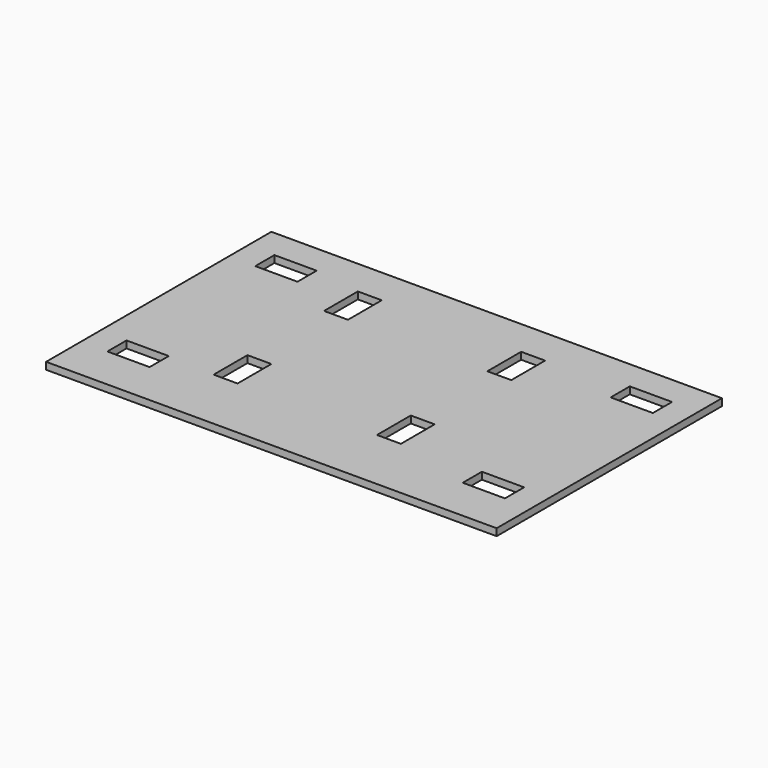
from build123d import *

# Parameters (mm, degrees)
F0_W     = 160
F0_H     = 100
F0_W_2   = 15
F0_H_2   = 8.5
F0_W_3   = 8.5
F0_H_3   = 15
F1_DEPTH = 2.5


with BuildPart() as f1:
    # F0 (on Top) → F1 (new body)
    with BuildSketch(Plane.XY):
        with Locations((-542.905006, -253.202301)):
            Rectangle(F0_W, F0_H)
        with Locations((-606.005006, -283.502301)):
            Rectangle(F0_W_2, F0_H_2, mode=Mode.SUBTRACT)
        with Locations((-577.555006, -272.702301)):
            Rectangle(F0_W_3, F0_H_3, mode=Mode.SUBTRACT)
        with Locations((-479.805006, -283.502301)):
            Rectangle(F0_W_2, F0_H_2, mode=Mode.SUBTRACT)
        with Locations((-519.555006, -272.702301)):
            Rectangle(F0_W_3, F0_H_3, mode=Mode.SUBTRACT)
        with Locations((-606.005006, -217.852301)):
            Rectangle(F0_W_2, F0_H_2, mode=Mode.SUBTRACT)
        with Locations((-577.555006, -223.702301)):
            Rectangle(F0_W_3, F0_H_3, mode=Mode.SUBTRACT)
        with Locations((-519.555006, -223.702301)):
            Rectangle(F0_W_3, F0_H_3, mode=Mode.SUBTRACT)
        with Locations((-479.805006, -217.852301)):
            Rectangle(F0_W_2, F0_H_2, mode=Mode.SUBTRACT)
    extrude(amount=F1_DEPTH)


solid = f1.part
